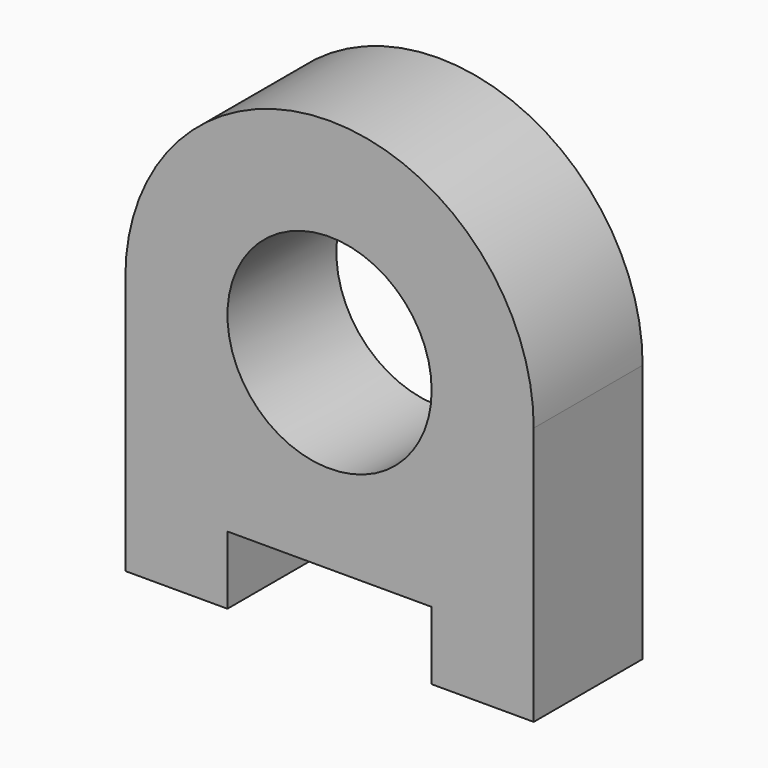
from build123d import *

# Parameters (mm, degrees)
F0_R     = 381
F1_DEPTH = 508


with BuildPart() as f1:
    # F0 (on Front) → F1 (new body)
    with BuildSketch(Plane.XZ):
        with BuildLine():
            Line((381, -482.6), (762, -482.6))
            Line((762, -482.6), (762, 482.6))
            ThreePointArc((762, 482.6), (0, 1244.6), (-762, 482.6))
            Line((-762, 482.6), (-762, -482.6))
            Line((-762, -482.6), (-381, -482.6))
            Line((-381, -482.6), (-381, -228.6))
            Line((-381, -228.6), (381, -228.6))
            Line((381, -228.6), (381, -482.6))
        make_face()
        with Locations((0, 482.6)):
            Circle(F0_R, mode=Mode.SUBTRACT)
        with BuildLine():
            Line((381, -482.6), (762, -482.6))
            Line((762, -482.6), (762, 482.6))
            ThreePointArc((762, 482.6), (0, 1244.6), (-762, 482.6))
            Line((-762, 482.6), (-762, -482.6))
            Line((-762, -482.6), (-381, -482.6))
            Line((-381, -482.6), (-381, -228.6))
            Line((-381, -228.6), (381, -228.6))
            Line((381, -228.6), (381, -482.6))
        make_face()
        with Locations((0, 482.6)):
            Circle(F0_R, mode=Mode.SUBTRACT)
    extrude(amount=F1_DEPTH)


solid = f1.part
